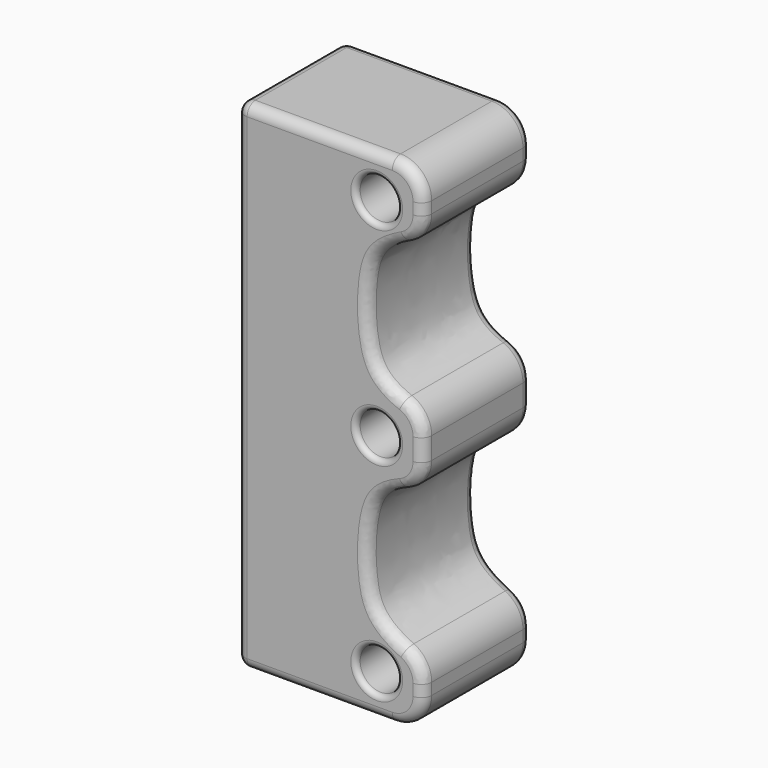
from build123d import *

# Parameters (mm, degrees)
F0_W      = 18
F0_H      = 48
F1_DEPTH  = 13
F2_R      = 2
F3_DEPTH  = 25
F4_R      = 3
F6_DEPTH  = 25
F7_R      = 3
F8_R      = 1
F9_R      = 1
F10_R     = 0.5
F11_W     = 10.1
F11_H     = 20.1
F12_DEPTH = 4.5
F13_R     = 1.9
F15_DEPTH = 5.83


with BuildPart() as f1:
    # F0 (on Front) → F1 (new body)
    with BuildSketch(Plane.XZ):
        with Locations((9, 0)):
            Rectangle(F0_W, F0_H)
    extrude(amount=F1_DEPTH)

    # F2 (on face) → F3 (cut)
    with BuildSketch(Plane.XZ.offset(13)):
        with Locations((13.5, 0)):
            Circle(F2_R)
        with Locations((13.5, -20)):
            Circle(F2_R)
        with Locations((13.5, 20)):
            Circle(F2_R)
    extrude(amount=-F3_DEPTH, mode=Mode.SUBTRACT)

    # F4
    f4_edges = [f1.edges().sort_by_distance(p)[0] for p in [
        (18, -6.5, 24),
        (18, -6.5, -24),
    ]]
    fillet(f4_edges, radius=F4_R)

    # F5 (on face) → F6 (cut)
    with BuildSketch(Plane.XZ.offset(13)):
        with BuildLine():
            Line((18, 3.2415748574), (18, 17.8880058229))
            add(Edge.make_bspline(
                [(18, 17.8880058229), (13.9617644993, 16.3671530614), (12.5045627002, 14.0581995393), (12.5905025002, 6.3160633721), (14.3027597727, 4.2202077596), (18, 3.2415748574)],
                knots=[0, 0, 0, 0, 0.3455572401, 0.6706092124, 1, 1, 1, 1], degree=3))
        make_face()
        with BuildLine():
            add(Edge.make_bspline(
                [(18, -17.8880058229), (13.9617644993, -16.3671530614), (12.5045627002, -14.0581995393), (12.5905025002, -6.3160633721), (14.3027597727, -4.2202077596), (18, -3.2415748574)],
                knots=[0, 0, 0, 0, 0.3455572401, 0.6706092124, 1, 1, 1, 1], degree=3))
            Line((18, -17.8880058229), (18, -3.2415748574))
        make_face()
    extrude(amount=-F6_DEPTH, mode=Mode.SUBTRACT)

    # F7
    f7_edges = [f1.edges().sort_by_distance(p)[0] for p in [
        (18, -6.5, 17.888006),
        (18, -6.5, -17.888006),
        (18, -6.5, 3.241575),
        (18, -6.5, -3.241575),
    ]]
    fillet(f7_edges, radius=F7_R)

    # F8
    f8_edges = [f1.edges().sort_by_distance(p)[0] for p in [
        (0, -6.5, -24),
        (0, -6.5, 24),
    ]]
    fillet(f8_edges, radius=F8_R)

    # F9
    f9_edges = [f1.edges().sort_by_distance(p)[0] for p in [
        (8, -13, 24),
        (0, 0, 0),
    ]]
    fillet(f9_edges, radius=F9_R)

    # F10
    f10_edges = [f1.edges().sort_by_distance(p)[0] for p in [
        (11.5, -13, -20),
        (11.5, -13, 0),
        (11.5, -13, 20),
        (11.5, 0, 20),
        (11.5, 0, 0),
        (11.5, 0, -20),
    ]]
    fillet(f10_edges, radius=F10_R)

    # F11 (on face) → F12 (cut)
    with BuildSketch(Plane(origin=(0, 0, 0), x_dir=(0, -1, 0), z_dir=(-1, 0, 0))):
        with Locations((6.45, 11.95)):
            Rectangle(F11_W, F11_H)
        with Locations((6.45, -11.95)):
            Rectangle(F11_W, F11_H)
    extrude(amount=-F12_DEPTH, mode=Mode.SUBTRACT)

    # F13 (on face) + F14 (on face) → F15 (cut)
    with BuildSketch(Plane(origin=(4.5, 0, 0), x_dir=(0, -1, 0), z_dir=(-1, 0, 0))):
        with Locations((6.45, 11.95)):
            Circle(F13_R)
    with BuildSketch(Plane(origin=(4.5, 0, 0), x_dir=(0, -1, 0), z_dir=(-1, 0, 0))):
        with BuildLine():
            ThreePointArc((6.45, -13.85), (7.7935028843, -13.2935028843), (8.35, -11.95))
            Line((8.35, -11.95), (6.45, -11.95))
            Line((6.45, -11.95), (6.45, -13.85))
        make_face()
        with BuildLine():
            Line((6.45, -11.95), (8.35, -11.95))
            ThreePointArc((8.35, -11.95), (7.7935028843, -10.6064971157), (6.45, -10.05))
            Line((6.45, -10.05), (6.45, -11.95))
        make_face()
        with BuildLine():
            Line((6.45, -13.85), (6.45, -11.95))
            Line((6.45, -11.95), (4.55, -11.95))
            ThreePointArc((4.55, -11.95), (5.1064971157, -13.2935028843), (6.45, -13.85))
        make_face()
        with BuildLine():
            Line((4.55, -11.95), (6.45, -11.95))
            Line((6.45, -11.95), (6.45, -10.05))
            ThreePointArc((6.45, -10.05), (5.1064971157, -10.6064971157), (4.55, -11.95))
        make_face()
    extrude(amount=-F15_DEPTH, mode=Mode.SUBTRACT)


solid = f1.part
